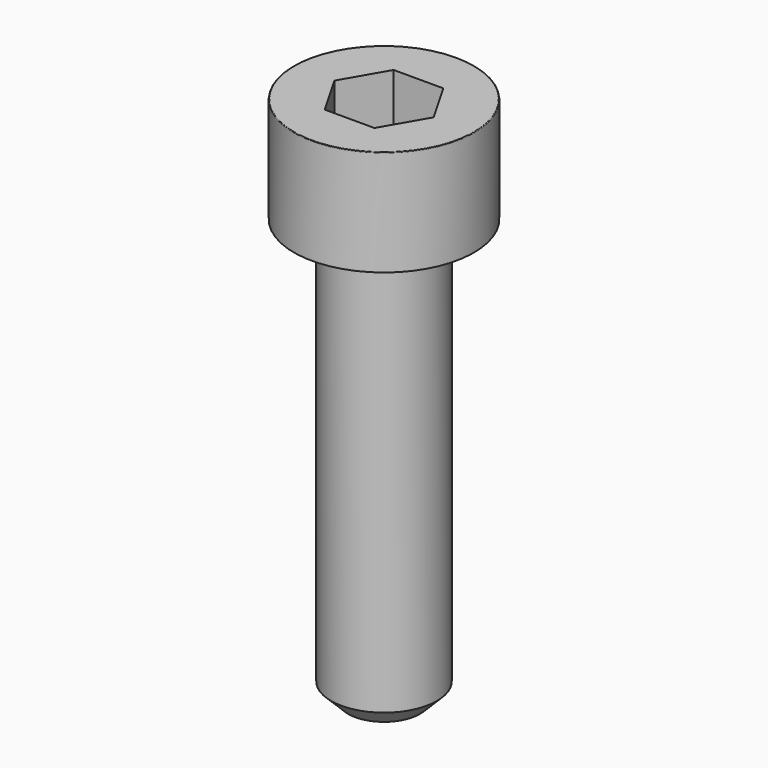
from build123d import *

# Parameters (mm, degrees)
POCKET_DEPTH = 4.06


with BuildPart() as part:
    # Sketch → Revolve (revolve)
    with BuildSketch(Plane.YZ):
        with BuildLine():
            Line((2.499, 0), (4.25, 0))
            Line((4.25, 0), (4.25, 4.97229))
            ThreePointArc((4.25, 4.97229), (4.241884, 4.991884), (4.22229, 5))
            Line((4.22229, 5), (0, 5))
            Line((0, -20), (0, 5))
            Line((1.7, -20), (0, -20))
            Line((2.5, -19.2), (1.7, -20))
            Line((2.5, -0.2), (2.5, -19.2))
            Line((2.499, 0), (2.5, -0.2))
        make_face()
    revolve(axis=Axis((0, 0, 0), (0, 0, 1)))

    # Sketch001 → Pocket (cut)
    with BuildSketch(Plane.XY.offset(5)):
        Polygon((2.344042, 0), (1.172021, 2.03), (-1.172021, 2.03), (-2.344042, 0), (-1.172021, -2.03), (1.172021, -2.03), align=None)
    extrude(amount=-POCKET_DEPTH, mode=Mode.SUBTRACT)


solid = part.part
